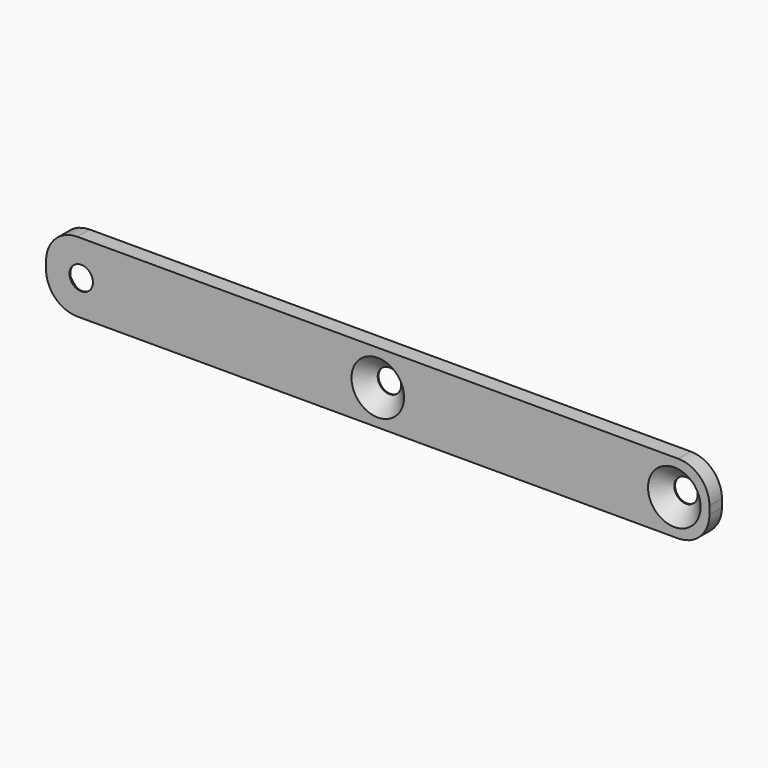
from build123d import *

# Parameters (mm, degrees)
F0_W     = 85
F0_H     = 9
F0_R     = 1.5
F1_DEPTH = 2
F2_R     = 4
F3_SIZE  = 1.87


with BuildPart() as f1:
    # F0 (on Front) → F1 (new body)
    with BuildSketch(Plane.XZ):
        Rectangle(F0_W, F0_H)
        with Locations((-38, 0)):
            Circle(F0_R, mode=Mode.SUBTRACT)
        Circle(F0_R, mode=Mode.SUBTRACT)
        with Locations((38, 0)):
            Circle(F0_R, mode=Mode.SUBTRACT)
    extrude(amount=F1_DEPTH)

    # F2
    f2_edges = [f1.edges().sort_by_distance(p)[0] for p in [
        (-42.5, -1, 4.5),
        (-42.5, -1, -4.5),
        (42.5, -1, -4.5),
        (42.5, -1, 4.5),
    ]]
    fillet(f2_edges, radius=F2_R)

    # F3
    f3_edges = [f1.edges().sort_by_distance(p)[0] for p in [
        (36.5, -2, 0),
        (-1.5, -2, 0),
        (-39.5, 0, 0),
    ]]
    chamfer(f3_edges, length=F3_SIZE)


solid = f1.part
